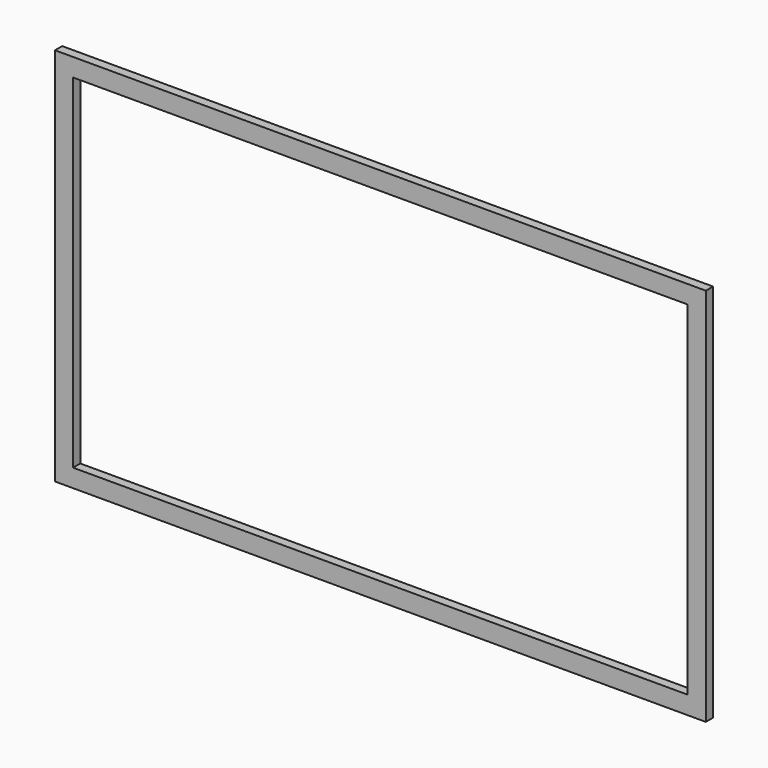
from build123d import *

# Parameters (mm, degrees)
F0_W     = 91.44
F0_H     = 53.34
F1_DEPTH = 1.27
F2_T     = -2.54


with BuildPart() as f1:
    # F0 (on Front) → F1 (new body)
    with BuildSketch(Plane.XZ):
        with Locations((-0.786327, -13.020056)):
            Rectangle(F0_W, F0_H)
    extrude(amount=F1_DEPTH)

    # F2
    f2_openings = [f1.faces().sort_by_distance(p)[0] for p in [
        (-0.786327, -1.27, -13.020056),
        (-0.786327, 0, -13.020056),
    ]]
    offset(amount=F2_T, openings=f2_openings)


solid = f1.part
